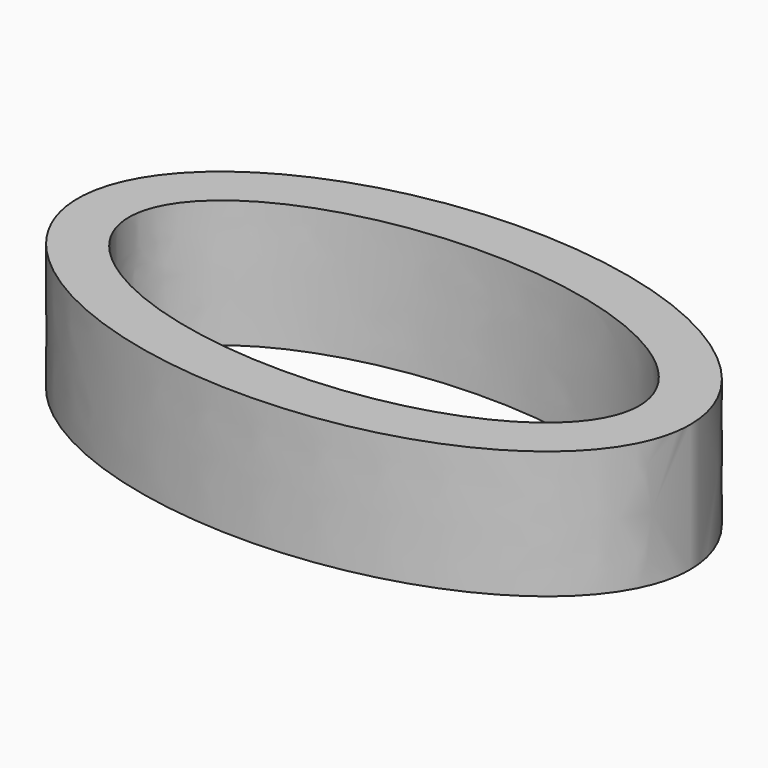
from build123d import *

# Parameters (mm, degrees)
F1_DEPTH = 6.35


with BuildPart() as f1:
    # F0 (on Top) → F1 (new body)
    with BuildSketch(Plane.XY):
        with BuildLine():
            add(Edge.make_bspline(
                [(15.24, 0), (15.24, 15.397932), (-7.62, 7.698966), (-30.48, 0), (-7.62, -7.698966), (15.24, -15.397932), (15.24, 0)],
                knots=[0, 0, 0, 2.094395, 2.094395, 4.18879, 4.18879, 6.283185, 6.283185, 6.283185], degree=2, weights=[1, 0.5, 1, 0.5, 1, 0.5, 1]))
        make_face()
        with BuildLine():
            add(Edge.make_bspline(
                [(12.7, 0), (12.7, 10.998523), (-6.35, 5.499261), (-25.4, 0), (-6.35, -5.499261), (12.7, -10.998523), (12.7, 0)],
                knots=[0, 0, 0, 2.094395, 2.094395, 4.18879, 4.18879, 6.283185, 6.283185, 6.283185], degree=2, weights=[1, 0.5, 1, 0.5, 1, 0.5, 1]))
        make_face(mode=Mode.SUBTRACT)
    extrude(amount=-F1_DEPTH)


solid = f1.part
